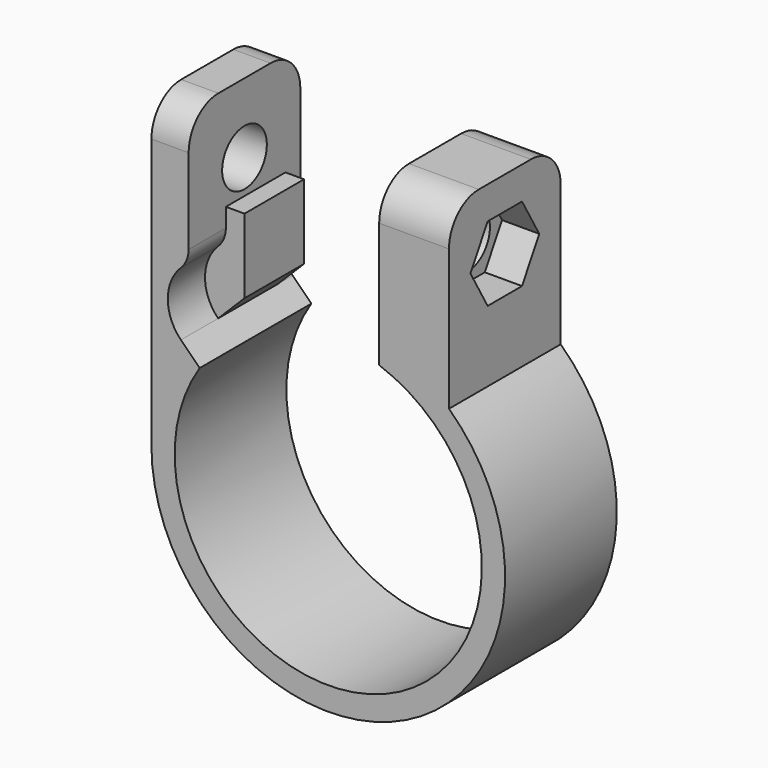
from build123d import *

# Parameters (mm, degrees)
PAD_DEPTH       = 15
SKETCH001_R     = 3
POCKET_DEPTH    = 38.001
FILLET_R        = 4
POCKET001_DEPTH = 4
POCKET002_DEPTH = 5
POCKET003_DEPTH = 2


with BuildPart() as part:
    # Sketch → Pad (new body)
    with BuildSketch(Plane.XZ):
        with BuildLine():
            Line((-19, 0), (-19, 33))
            Line((-19, 33), (-15, 33))
            Line((-15, 33), (-15, 21.856406))
            Line((-15, 21.856406), (-13, 21.856406))
            Line((-13, 21.856406), (-13, 13.856406))
            Line((-13, 13.856406), (-15.828427, 11.027979))
            Line((-15.828427, 11.027979), (-13.817926, 9.017478))
            ThreePointArc((-13.817926, 9.017478), (5.303714, -15.62436), (5.473078, 15.565841))
            Line((5.473078, 15.565841), (5.473078, 33))
            Line((5.473078, 33), (12.973078, 33))
            Line((12.973078, 33), (12.973078, 13.881615))
            ThreePointArc((-19, 0), (7.566753, -17.42826), (12.973078, 13.881615))
        make_face()
    extrude(amount=PAD_DEPTH)

    # Sketch001 (on Face1 of Pad) → Pocket (cut, through all)
    with BuildSketch(Plane(origin=(-19, 0, 0), x_dir=(0, 0, -1), z_dir=(-1, 0, 0))):
        with Locations((-25.5, 7.5)):
            Circle(SKETCH001_R)
    extrude(amount=-POCKET_DEPTH, mode=Mode.SUBTRACT)

    # Fillet
    fillet_edges = [part.edges().sort_by_distance(p)[0] for p in [
        (-17, 0, 33),
        (-17, -15, 33),
        (9.223078, -15, 33),
        (9.223078, 0, 33),
    ]]
    fillet(fillet_edges, radius=FILLET_R)

    # Sketch002 (on Face10 of Fillet) → Pocket001 (cut)
    with BuildSketch(Plane(origin=(12.973078, 0, 0), x_dir=(0, 0, 1), z_dir=(1, 0, 0))):
        Polygon((21.5, 9.809401), (21.5, 5.190599), (25.5, 2.881198), (29.5, 5.190599), (29.5, 9.809401), (25.5, 12.118802), align=None)
    extrude(amount=-POCKET001_DEPTH, mode=Mode.SUBTRACT)

    # Sketch003 (on Face6 of Pocket001) → Pocket002 (cut)
    with BuildSketch(Plane.XZ.offset(15)):
        with BuildLine():
            Line((-15, 21.856406), (-15, 19.856406))
            ThreePointArc((-15.828427, 17.856406), (-15.215301, 18.774014), (-15, 19.856406))
            ThreePointArc((-15.828427, 17.856406), (-17.242641, 14.442193), (-15.828427, 11.027979))
            Line((-13, 13.856406), (-15.828427, 11.027979))
            Line((-13, 21.856406), (-13, 13.856406))
            Line((-15, 21.856406), (-13, 21.856406))
        make_face()
    extrude(amount=-POCKET002_DEPTH, mode=Mode.SUBTRACT)

    # Sketch004 (on Face2 of Pocket002) → Pocket003 (cut)
    with BuildSketch(Plane(origin=(0, 0, 0), x_dir=(1, 0, 0), z_dir=(0, 1, 0))):
        with BuildLine():
            Line((-15, -21.856406), (-15, -19.856406))
            ThreePointArc((-15, -19.856406), (-15.215301, -18.774014), (-15.828427, -17.856406))
            ThreePointArc((-15.828427, -11.027979), (-17.242641, -14.442193), (-15.828427, -17.856406))
            Line((-13, -13.856406), (-15.828427, -11.027979))
            Line((-13, -21.856406), (-13, -13.856406))
            Line((-15, -21.856406), (-13, -21.856406))
        make_face()
    extrude(amount=-POCKET003_DEPTH, mode=Mode.SUBTRACT)


solid = part.part
